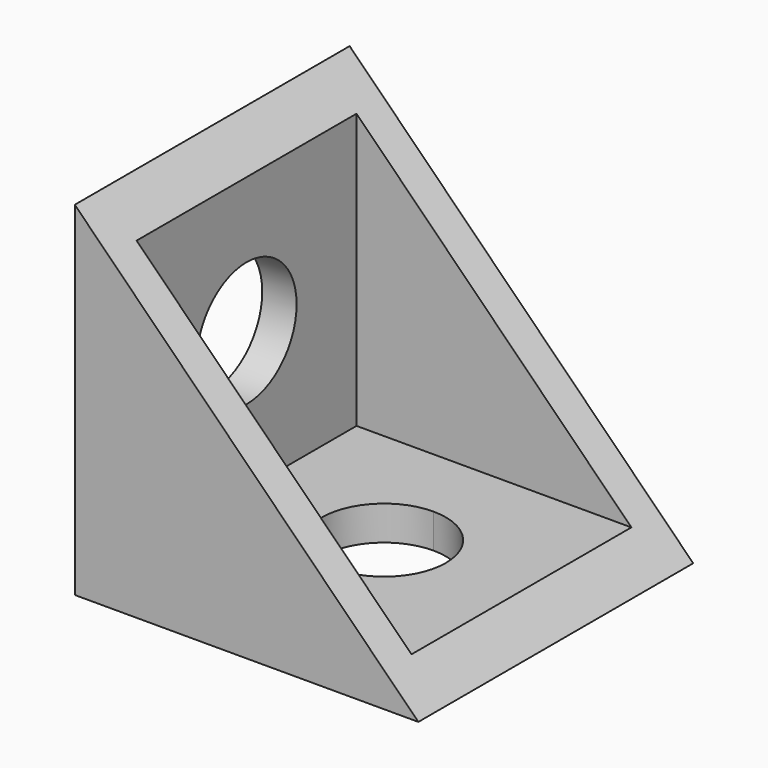
from build123d import *

# Parameters (mm, degrees)
F0_W     = 12.7
F0_H     = 12.7
F1_DEPTH = 12.7
F3_DEPTH = 25.4
F4_T     = -1.27
F7_DEPTH = 25.4
F8_DEPTH = 25.4


with BuildPart() as f1:
    # F0 (on Top) → F1 (new body)
    with BuildSketch(Plane.XY):
        with Locations((4.3248645961, 3.1129373469)):
            Rectangle(F0_W, F0_H)
    extrude(amount=F1_DEPTH)

    # F2 (on face) → F3 (cut)
    with BuildSketch(Plane.XZ.offset(3.2370626531)):
        Polygon((10.6748645961, 12.7), (-2.0251354039, 12.7), (10.6748645961, 0), align=None)
    extrude(amount=-F3_DEPTH, mode=Mode.SUBTRACT)

    # F4
    f4_openings = [f1.faces().sort_by_distance(p)[0] for p in [
        (4.324865, 3.112937, 6.35),
    ]]
    offset(amount=F4_T, openings=f4_openings)

    # F6 (on face) → F7 (cut)
    with BuildSketch(Plane(origin=(-2.0251354039, 0, 0), x_dir=(0, -1, 0), z_dir=(-1, 0, 0))):
        with BuildLine():
            ThreePointArc((-0.8015373469, 6.35), (-1.4785307329, 7.984406614), (-3.1129373469, 8.6614))
            Line((-3.1129373469, 8.6614), (-3.1129373469, 4.0386))
            ThreePointArc((-3.1129373469, 4.0386), (-1.4785307329, 4.715593386), (-0.8015373469, 6.35))
        make_face()
        with BuildLine():
            Line((-3.1129373469, 4.0386), (-3.1129373469, 8.6614))
            ThreePointArc((-3.1129373469, 8.6614), (-5.4243373469, 6.35), (-3.1129373469, 4.0386))
        make_face()
    extrude(amount=-F7_DEPTH, mode=Mode.SUBTRACT)

    # F5 (on face) → F8 (cut)
    with BuildSketch(Plane(origin=(0, 0, 0), x_dir=(1, 0, 0), z_dir=(0, 0, -1))):
        with BuildLine():
            ThreePointArc((6.6108645961, -3.1129373469), (5.9413106979, -1.4964912451), (4.3248645961, -0.8269373469))
            Line((4.3248645961, -0.8269373469), (4.3248645961, -5.3989373469))
            ThreePointArc((4.3248645961, -5.3989373469), (5.9413106979, -4.7293834487), (6.6108645961, -3.1129373469))
        make_face()
        with BuildLine():
            Line((4.3248645961, -5.3989373469), (4.3248645961, -0.8269373469))
            ThreePointArc((4.3248645961, -0.8269373469), (2.0388645961, -3.1129373469), (4.3248645961, -5.3989373469))
        make_face()
    extrude(amount=-F8_DEPTH, mode=Mode.SUBTRACT)


solid = f1.part
